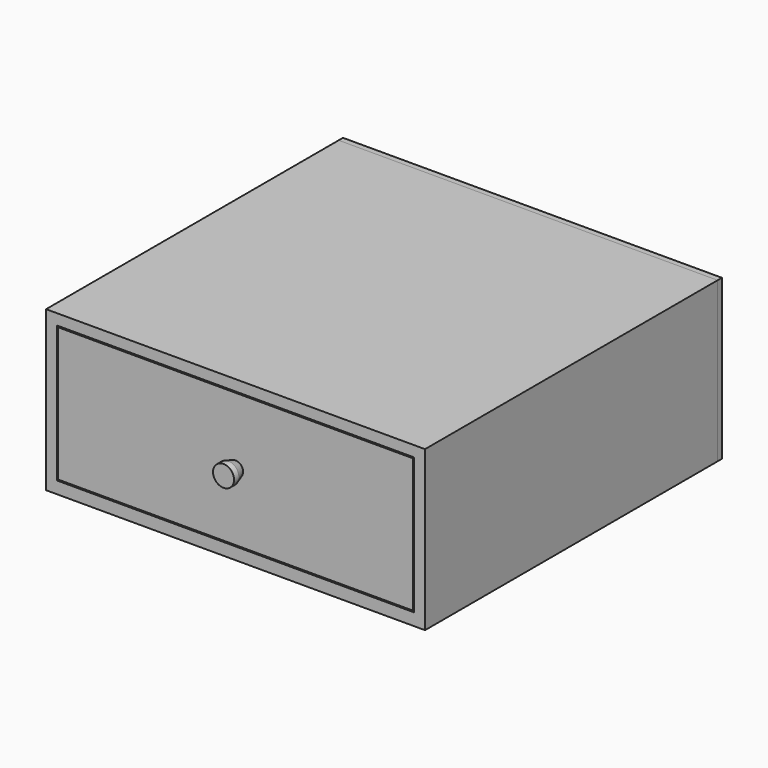
from build123d import *

# Parameters (mm, degrees)
F0_W      = 630
F0_H      = 265
F0_W_2    = 594
F0_H_2    = 226.838547
F1_DEPTH  = 608
F2_W      = 630
F2_H      = 265
F3_DEPTH  = 9
F4_W      = 590
F4_H      = 222.838547
F5_DEPTH  = 18
F6_W      = 565
F6_H      = 189.362255
F7_DEPTH  = 550
F8_T      = -18
F9_R      = 17.5
F10_DEPTH = 25
F11_SIZE2 = 5
F11_SIZE  = 15


with BuildPart() as f1:
    # F0 (on Front) → F1 (new body)
    with BuildSketch(Plane.XZ):
        with Locations((-11.848952, 60.956648)):
            Rectangle(F0_W, F0_H)
        with Locations((-11.848952, 62.037374)):
            Rectangle(F0_W_2, F0_H_2, mode=Mode.SUBTRACT)
    extrude(amount=F1_DEPTH)


with BuildPart() as f3:
    # F2 (on face) → F3 (new body)
    with BuildSketch(Plane(origin=(0, 0, 0), x_dir=(-1, 0, 0), z_dir=(0, 1, 0))):
        with Locations((11.848952, 60.956648)):
            Rectangle(F2_W, F2_H)
    extrude(amount=F3_DEPTH)


with BuildPart() as f5:
    # F4 (on face) → F5 (new body)
    with BuildSketch(Plane.XZ.offset(608)):
        with Locations((-11.848952, 62.037374)):
            Rectangle(F4_W, F4_H)
    extrude(amount=-F5_DEPTH)


with BuildPart() as f7:
    # F6 (on face) → F7 (new body)
    with BuildSketch(Plane(origin=(0, -590, 0), x_dir=(-1, 0, 0), z_dir=(0, 1, 0))):
        with Locations((11.848952, 65.299228)):
            Rectangle(F6_W, F6_H)
    extrude(amount=F7_DEPTH)

    # F8
    f8_openings = [f7.faces().sort_by_distance(p)[0] for p in [
        (-11.848952, -315, 159.980356),
    ]]
    offset(amount=F8_T, openings=f8_openings)


with BuildPart() as f10:
    # F9 (on face) → F10 (new body)
    with BuildSketch(Plane.XZ.offset(608)):
        with Locations((-11.848952, 62.037374)):
            Circle(F9_R)
    extrude(amount=F10_DEPTH)

    # F11
    f11_edges = [f10.edges().sort_by_distance(p)[0] for p in [
        (-29.348952, -608, 62.037374),
    ]]
    chamfer(f11_edges, length=F11_SIZE, length2=F11_SIZE2)


solid = Compound([f1.part, f3.part, f5.part, f7.part, f10.part])
